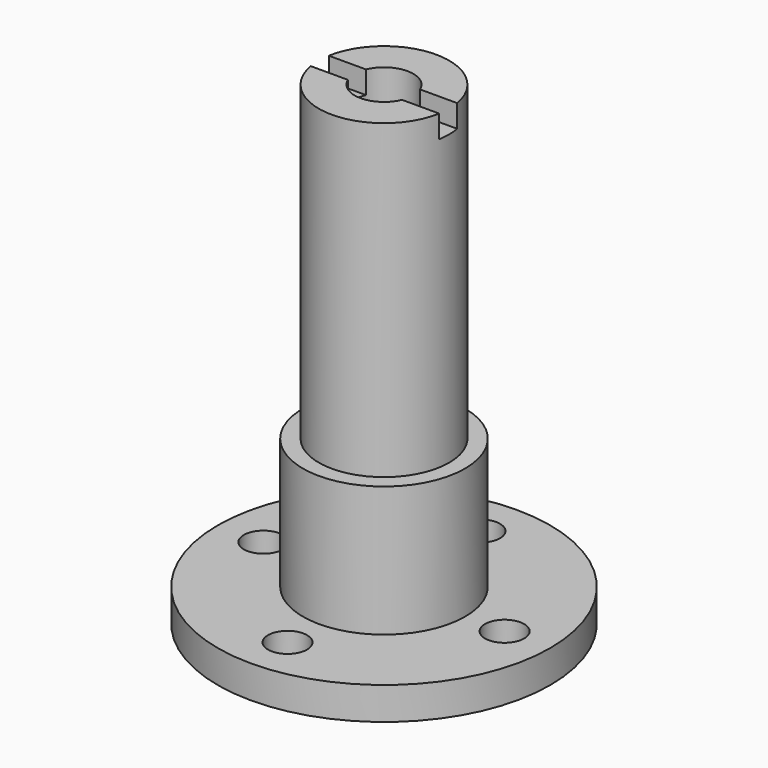
from build123d import *

# Parameters (mm, degrees)
F0_R     = 7.9
F0_R_2   = 6.35
F1_DEPTH = 15.875
F0_R_3   = 2.8575
F2_DEPTH = 46.228
F0_R_4   = 16.1925
F0_R_5   = 1.905
F4_DEPTH = 3.175
F6_DEPTH = 2.2


with BuildPart() as f1:
    # F0 (on Top) → F1 (new body)
    with BuildSketch(Plane.XY):
        Circle(F0_R)
        Circle(F0_R_2, mode=Mode.SUBTRACT)
    extrude(amount=F1_DEPTH)

    # F0 (on Top) → F2 (join)
    with BuildSketch(Plane.XY):
        Circle(F0_R_2)
        Circle(F0_R_3, mode=Mode.SUBTRACT)
    extrude(amount=F2_DEPTH)

    # F0 (on Top) → F4 (join)
    with BuildSketch(Plane.XY):
        Circle(F0_R_4)
        with Locations((0, -11.7475)):
            Circle(F0_R_5, mode=Mode.SUBTRACT)
        with Locations((-11.7475, 0)):
            Circle(F0_R_5, mode=Mode.SUBTRACT)
        Circle(F0_R, mode=Mode.SUBTRACT)
        with Locations((11.7475, 0)):
            Circle(F0_R_5, mode=Mode.SUBTRACT)
        with Locations((0, 11.7475)):
            Circle(F0_R_5, mode=Mode.SUBTRACT)
    extrude(amount=F4_DEPTH)

    # F5 (on face) → F6 (cut)
    with BuildSketch(Plane.XY.offset(46.228)):
        with BuildLine():
            ThreePointArc((6.35, 0), (6.3259541524, 0.5520906279), (6.2539987208, 1.1))
            Line((6.2539987208, 1.1), (2.637291461, 1.1))
            ThreePointArc((2.637291461, 1.1), (2.8019070827, 0.5609126048), (2.8575, 0))
            ThreePointArc((2.8575, 0), (2.8019070827, -0.5609126048), (2.637291461, -1.1))
            Line((2.637291461, -1.1), (6.2539987208, -1.1))
            ThreePointArc((6.2539987208, -1.1), (6.3259541524, -0.5520906279), (6.35, 0))
        make_face()
        with BuildLine():
            Line((-2.637291461, 1.1), (-6.2539987208, 1.1))
            ThreePointArc((-6.2539987208, 1.1), (-6.35, 0), (-6.2539987208, -1.1))
            Line((-6.2539987208, -1.1), (-2.637291461, -1.1))
            ThreePointArc((-2.637291461, -1.1), (-2.8575, 0), (-2.637291461, 1.1))
        make_face()
    extrude(amount=-F6_DEPTH, mode=Mode.SUBTRACT)


solid = f1.part
